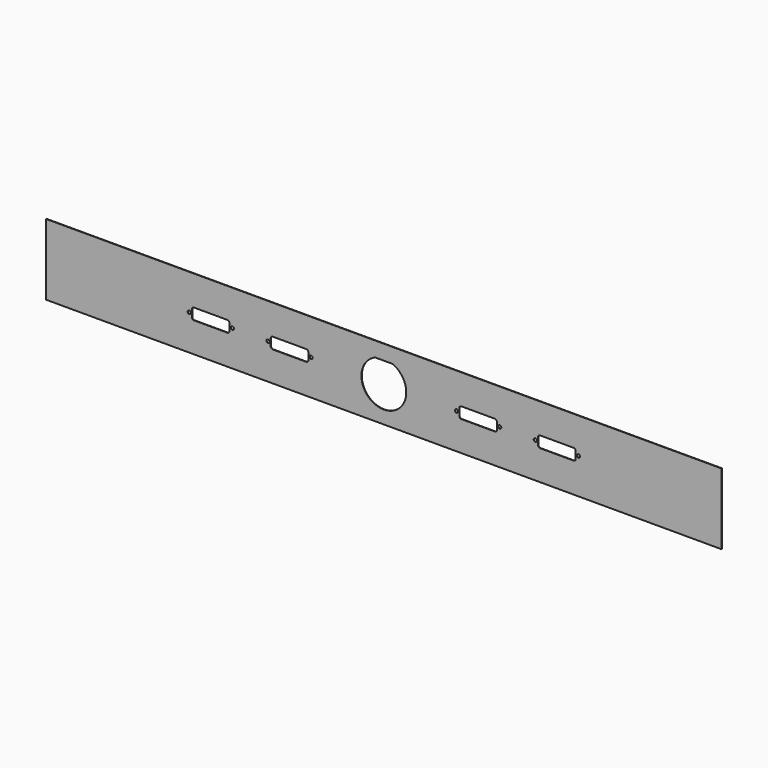
from build123d import *

# Parameters (mm, degrees)
F0_W     = 482.6
F0_H     = 50.8
F0_R     = 1.1557
F1_DEPTH = 0.3175


with BuildPart() as f1:
    # F0 (on Front) → F1 (new body)
    with BuildSketch(Plane.XZ):
        Rectangle(F0_W, F0_H)
        with Locations((-139.0777, 0)):
            Circle(F0_R, mode=Mode.SUBTRACT)
        with BuildLine():
            ThreePointArc((-110.1852, -2.4511), (-110.646448, -3.564652), (-111.76, -4.0259))
            Line((-111.76, -4.0259), (-135.5344, -4.0259))
            ThreePointArc((-135.5344, -4.0259), (-136.647952, -3.564652), (-137.1092, -2.4511))
            Line((-137.1092, -2.4511), (-137.1092, 2.4511))
            ThreePointArc((-137.1092, 2.4511), (-136.647952, 3.564652), (-135.5344, 4.0259))
            Line((-135.5344, 4.0259), (-111.76, 4.0259))
            ThreePointArc((-111.76, 4.0259), (-110.646448, 3.564652), (-110.1852, 2.4511))
            Line((-110.1852, 2.4511), (-110.1852, -2.4511))
        make_face(mode=Mode.SUBTRACT)
        with Locations((-108.2167, 0)):
            Circle(F0_R, mode=Mode.SUBTRACT)
        with Locations((-82.8167, 0)):
            Circle(F0_R, mode=Mode.SUBTRACT)
        with BuildLine():
            Line((-79.2607, 4.0259), (-55.4863, 4.0259))
            ThreePointArc((-55.4863, 4.0259), (-54.372748, 3.564652), (-53.9115, 2.4511))
            Line((-53.9115, 2.4511), (-53.9115, -2.4511))
            ThreePointArc((-53.9115, -2.4511), (-54.372748, -3.564652), (-55.4863, -4.0259))
            Line((-55.4863, -4.0259), (-79.2607, -4.0259))
            ThreePointArc((-79.2607, -4.0259), (-80.374252, -3.564652), (-80.8355, -2.4511))
            Line((-80.8355, -2.4511), (-80.8355, 2.4511))
            ThreePointArc((-80.8355, 2.4511), (-80.374252, 3.564652), (-79.2607, 4.0259))
        make_face(mode=Mode.SUBTRACT)
        with Locations((-51.9557, 0)):
            Circle(F0_R, mode=Mode.SUBTRACT)
        with BuildLine():
            ThreePointArc((6.247574, 14.732), (0, -16.002), (-6.247574, 14.732))
            Line((-6.247574, 14.732), (6.247574, 14.732))
        make_face(mode=Mode.SUBTRACT)
        with Locations((51.9557, 0)):
            Circle(F0_R, mode=Mode.SUBTRACT)
        with BuildLine():
            Line((53.9115, -2.4511), (53.9115, 2.4511))
            ThreePointArc((53.9115, 2.4511), (54.372748, 3.564652), (55.4863, 4.0259))
            Line((55.4863, 4.0259), (79.2607, 4.0259))
            ThreePointArc((79.2607, 4.0259), (80.374252, 3.564652), (80.8355, 2.4511))
            Line((80.8355, 2.4511), (80.8355, -2.4511))
            ThreePointArc((80.8355, -2.4511), (80.374252, -3.564652), (79.2607, -4.0259))
            Line((79.2607, -4.0259), (55.4863, -4.0259))
            ThreePointArc((55.4863, -4.0259), (54.372748, -3.564652), (53.9115, -2.4511))
        make_face(mode=Mode.SUBTRACT)
        with Locations((82.8167, 0)):
            Circle(F0_R, mode=Mode.SUBTRACT)
        with Locations((108.2167, 0)):
            Circle(F0_R, mode=Mode.SUBTRACT)
        with BuildLine():
            Line((137.1092, 2.4511), (137.1092, -2.4511))
            ThreePointArc((137.1092, -2.4511), (136.647952, -3.564652), (135.5344, -4.0259))
            Line((135.5344, -4.0259), (111.76, -4.0259))
            ThreePointArc((111.76, -4.0259), (110.646448, -3.564652), (110.1852, -2.4511))
            Line((110.1852, -2.4511), (110.1852, 2.4511))
            ThreePointArc((110.1852, 2.4511), (110.646448, 3.564652), (111.76, 4.0259))
            Line((111.76, 4.0259), (135.5344, 4.0259))
            ThreePointArc((135.5344, 4.0259), (136.647952, 3.564652), (137.1092, 2.4511))
        make_face(mode=Mode.SUBTRACT)
        with Locations((139.0777, 0)):
            Circle(F0_R, mode=Mode.SUBTRACT)
    extrude(amount=F1_DEPTH)


solid = f1.part
